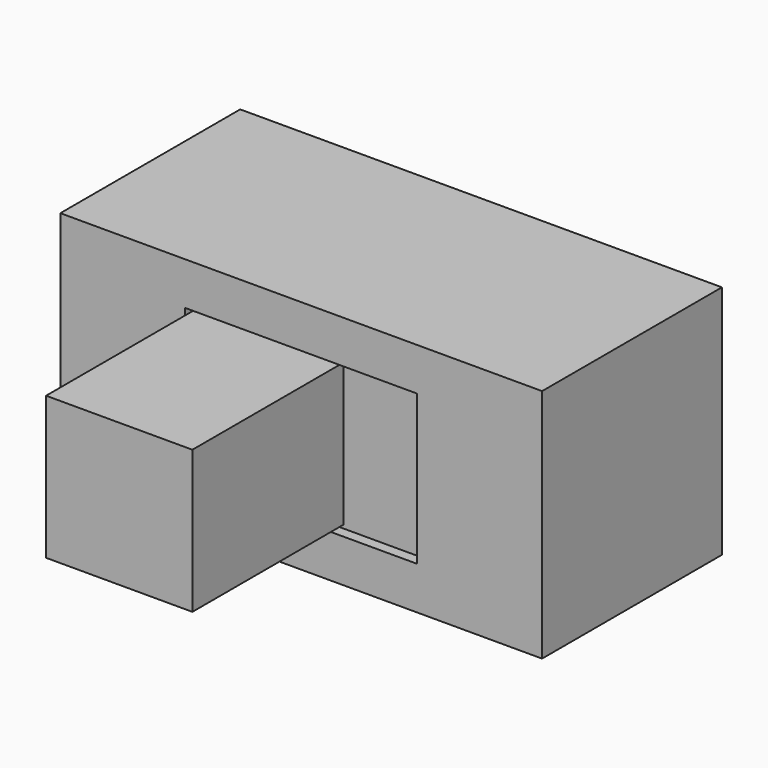
from build123d import *

# Parameters (mm, degrees)
SKETCH_W     = 13.5
SKETCH_H     = 6.3
PAD_DEPTH    = 6.6
SKETCH001_W  = 6.5
SKETCH001_H  = 4.2
POCKET_DEPTH = 0.3
SKETCH002_W  = 4.1
SKETCH002_H  = 4
PAD001_DEPTH = 5.3


with BuildPart() as part:
    # Sketch → Pad (new body)
    with BuildSketch(Plane.XY):
        with Locations((0, 3.15)):
            Rectangle(SKETCH_W, SKETCH_H)
    extrude(amount=PAD_DEPTH)

    # Sketch001 (on Face3 of Pad) → Pocket (cut)
    with BuildSketch(Plane.XZ):
        with Locations((0, 3.3)):
            Rectangle(SKETCH001_W, SKETCH001_H)
    extrude(amount=-POCKET_DEPTH, mode=Mode.SUBTRACT)

    # Sketch002 (on Face11 of Pocket) → Pad001 (join)
    with BuildSketch(Plane.XZ.offset(-0.3)):
        with Locations((-1.1, 3.3)):
            Rectangle(SKETCH002_W, SKETCH002_H)
    extrude(amount=PAD001_DEPTH)


solid = part.part
